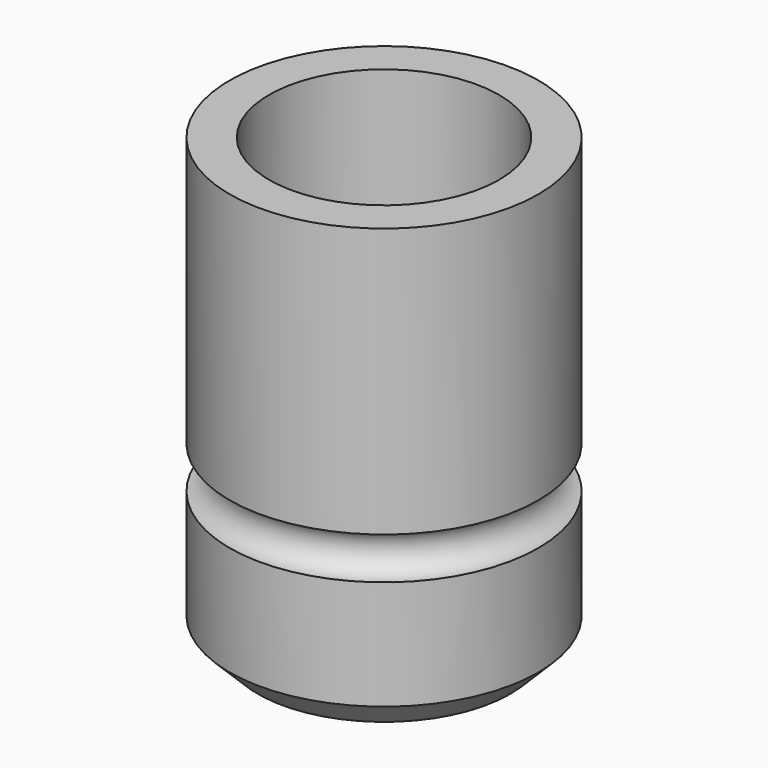
from build123d import *

# Parameters (mm, degrees)
F0_R     = 5.5
F0_R_2   = 4.1
F1_DEPTH = 16
F0_R_3   = 2.55
F2_DEPTH = 5
F3_SIZE  = 1
F4_R     = 0.75


with BuildPart() as f1:
    # F0 (on Top) → F1 (new body)
    with BuildSketch(Plane.XY):
        Circle(F0_R)
        Circle(F0_R_2, mode=Mode.SUBTRACT)
    extrude(amount=F1_DEPTH)

    # F0 (on Top) → F2 (join)
    with BuildSketch(Plane.XY):
        Circle(F0_R_2)
        Circle(F0_R_3, mode=Mode.SUBTRACT)
    extrude(amount=F2_DEPTH)

    # F3
    f3_edges = [f1.edges().sort_by_distance(p)[0] for p in [
        (-5.5, 0, 0),
    ]]
    chamfer(f3_edges, length=F3_SIZE)

    # F4 (on Front) → F5 (revolve, cut)
    with BuildSketch(Plane.XZ):
        with Locations((5.526415, 5.650808)):
            Circle(F4_R)
    revolve(axis=Axis((0, 0, 0), (0, 0, -1)), mode=Mode.SUBTRACT)


solid = f1.part
